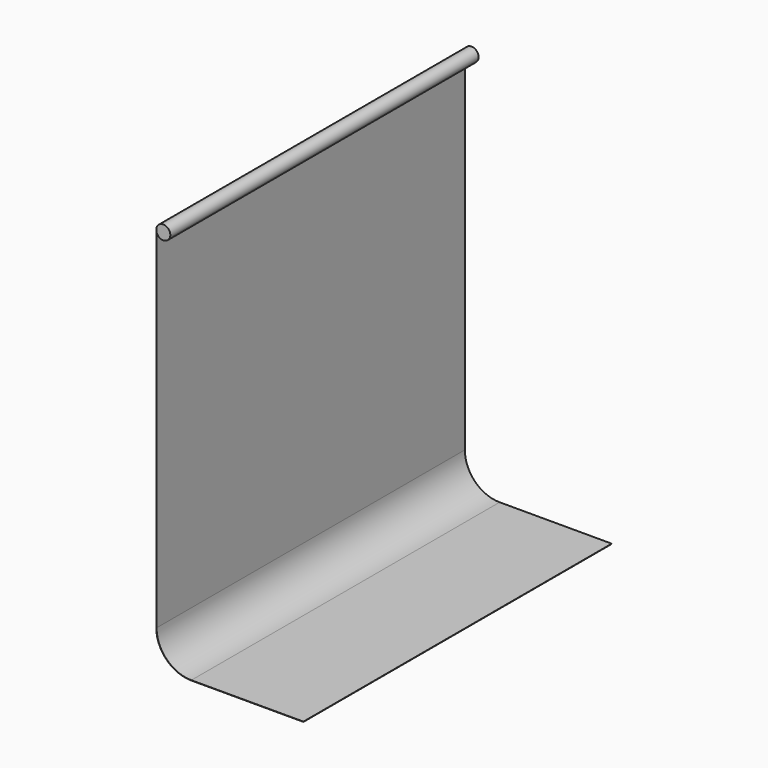
from build123d import *

# Parameters (mm, degrees)
F1_DEPTH = 2750


with BuildPart() as f1:
    # F0 (on Front) → F1 (new body)
    with BuildSketch(Plane.XZ):
        with BuildLine():
            Line((-48, -2500), (-48, -14))
            ThreePointArc((-48, -14), (49.497475, 7.071068), (-50, 0))
            Line((-50, 0), (-50, -2500))
            ThreePointArc((-50, -2500), (23.223305, -2676.776695), (200, -2750))
            Line((200, -2750), (1000, -2750))
            Line((1000, -2750), (1000, -2748))
            Line((1000, -2748), (200, -2748))
            ThreePointArc((200, -2748), (24.637518, -2675.362482), (-48, -2500))
        make_face()
    extrude(amount=F1_DEPTH)


solid = f1.part
